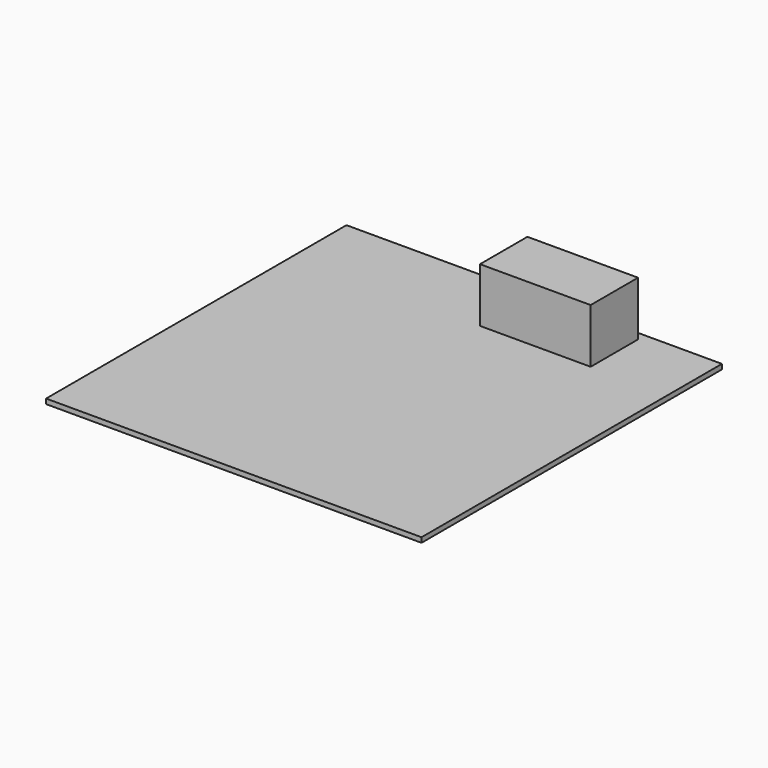
from build123d import *

# Parameters (mm, degrees)
F0_W     = 5791.2
F0_H     = 5791.2
F1_DEPTH = 2438.4
F2_T     = -76.2
F3_W     = 853.44
F3_H     = 914.4
F4_DEPTH = 914.4


with BuildPart() as f1:
    # F0 (on Top) → F1 (new body)
    with BuildSketch(Plane.XY):
        with Locations((-1.673922, 543.786808)):
            Rectangle(F0_W, F0_H)
    extrude(amount=F1_DEPTH)

    # F2
    f2_openings = [f1.faces().sort_by_distance(p)[0] for p in [
        (-1.673922, 543.786808, 2438.4),
        (2893.926078, 543.786808, 1219.2),
        (-1.673922, -2351.813192, 1219.2),
        (-1.673922, 3439.386808, 1219.2),
        (-2897.273922, 543.786808, 1219.2),
    ]]
    offset(amount=F2_T, openings=f2_openings)

    # F3 (on Top) → F4 (join)
    with BuildSketch(Plane.XY):
        with Locations((426.72, 2849.396897)):
            Rectangle(F3_W, F3_H)
        with Locations((1280.16, 2849.396897)):
            Rectangle(F3_W, F3_H)
    extrude(amount=F4_DEPTH)


solid = f1.part
